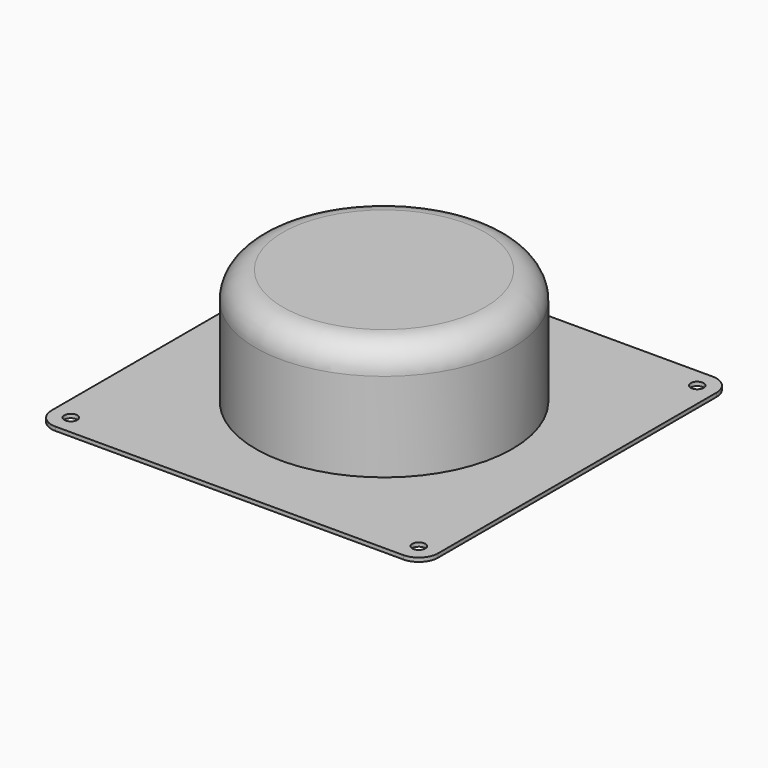
from build123d import *

# Parameters (mm, degrees)
F0_W     = 100
F0_H     = 100
F1_DEPTH = 1
F2_R     = 5
F3_R     = 1.676803
F4_DEPTH = 25
F5_R     = 33.189229
F6_DEPTH = 30
F7_R     = 25.904807
F8_DEPTH = 25
F9_R     = 7


with BuildPart() as f1:
    # F0 (on Top) → F1 (new body)
    with BuildSketch(Plane.XY):
        Rectangle(F0_W, F0_H)
    extrude(amount=F1_DEPTH)

    # F2
    f2_edges = [f1.edges().sort_by_distance(p)[0] for p in [
        (50, -50, 0.5),
        (-50, -50, 0.5),
        (-50, 50, 0.5),
        (50, 50, 0.5),
    ]]
    fillet(f2_edges, radius=F2_R)

    # F3 (on face) → F4 (cut)
    with BuildSketch(Plane.XY.offset(1)):
        with Locations((45, 45)):
            Circle(F3_R)
        with Locations((-45, 45)):
            Circle(F3_R)
        with Locations((-45, -45)):
            Circle(F3_R)
        with Locations((45, -45)):
            Circle(F3_R)
    extrude(amount=-F4_DEPTH, mode=Mode.SUBTRACT)

    # F5 (on face) → F6 (join)
    with BuildSketch(Plane.XY.offset(1)):
        Circle(F5_R)
    extrude(amount=F6_DEPTH)

    # F7 (on face) → F8 (cut)
    with BuildSketch(Plane(origin=(0, 0, 0), x_dir=(1, 0, 0), z_dir=(0, 0, -1))):
        Circle(F7_R)
    extrude(amount=-F8_DEPTH, mode=Mode.SUBTRACT)

    # F9
    f9_edges = [f1.edges().sort_by_distance(p)[0] for p in [
        (-33.189229, 0, 31),
        (-25.904807, 0, 25),
    ]]
    fillet(f9_edges, radius=F9_R)


solid = f1.part
